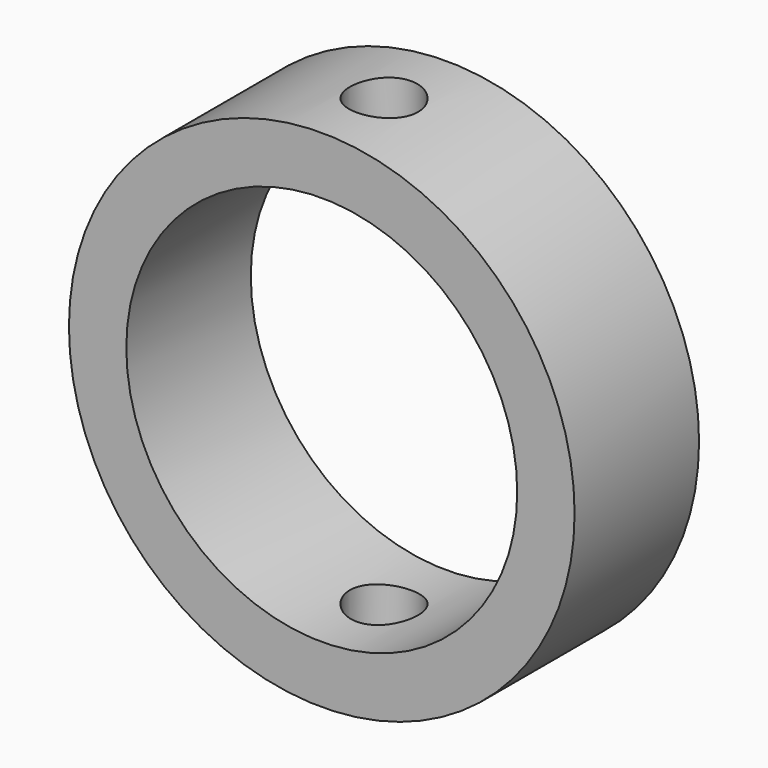
from build123d import *

# Parameters (mm, degrees)
F0_R     = 13
F0_R_2   = 10.05
F1_DEPTH = 8
F4_D     = 3.5


with BuildPart() as f1:
    # F0 (on Front) → F1 (new body)
    with BuildSketch(Plane.XZ):
        Circle(F0_R)
        Circle(F0_R_2, mode=Mode.SUBTRACT)
    extrude(amount=F1_DEPTH)

    # F4 (through all)
    with Locations(Plane.XY.offset(13)):
        with Locations((0, -4)):
            Hole(F4_D / 2)


solid = f1.part
